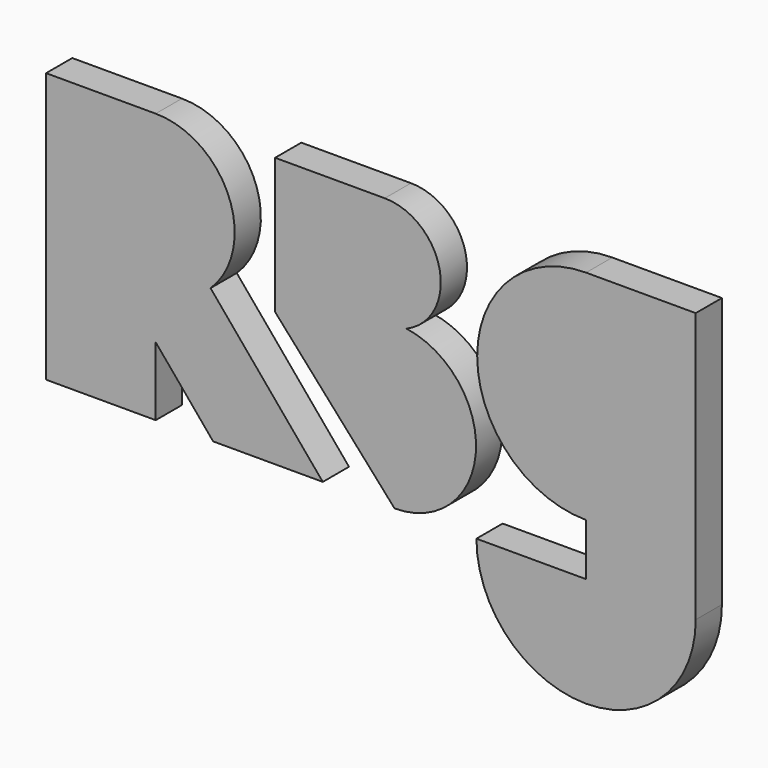
from build123d import *

# Parameters (mm, degrees)
F1_DEPTH = 4
F2_SCALE = 3


with BuildPart() as f1:
    # F0 (on Front) → F1 (new body)
    with BuildSketch(Plane.XZ):
        with BuildLine():
            Line((-47.564137727, 17.5864230841), (-60.9555803239, 17.5864230841))
            Line((-60.9555803239, 17.5864230841), (-60.9555803239, -15.37309587))
            Line((-60.9555803239, -15.37309587), (-47.564137727, -15.37309587))
            Line((-47.564137727, -15.37309587), (-47.564137727, -6.994077368))
            Line((-47.564137727, -6.994077368), (-40.5505889729, -15.37309587))
            Line((-40.5505889729, -15.37309587), (-27.1591463759, -15.37309587))
            Line((-27.1591463759, -15.37309587), (-40.8671155118, 1.0036815704))
            ThreePointArc((-40.8671155118, 1.0036815704), (-38.622138193, 11.554010306), (-47.564137727, 17.5864230841))
        make_face()
    extrude(amount=F1_DEPTH)


with BuildPart() as f1b:
    # F0 (on Front) → F1, piece 2 (new body)
    with BuildSketch(Plane.XZ):
        with BuildLine():
            Line((-32.9818894637, 17.5864230841), (-32.9818894637, 1.0036815704))
            Line((-32.9818894637, 1.0036815704), (-18.397403881, -15.37309587))
            ThreePointArc((-18.397403881, -15.37309587), (-8.4671886154, -6.1487036903), (-16.9357250418, 4.4334736424))
            ThreePointArc((-16.9357250418, 4.4334736424), (-12.8813555165, 12.0961684018), (-19.5904468667, 17.5864230841))
            Line((-19.5904468667, 17.5864230841), (-32.9818894637, 17.5864230841))
        make_face()
    extrude(amount=F1_DEPTH)


with BuildPart() as f1c:
    # F0 (on Front) → F1, piece 3 (new body)
    with BuildSketch(Plane.XZ):
        with BuildLine():
            Line((18.3889092878, 17.5864230841), (4.9974666908, 17.5864230841))
            ThreePointArc((4.9974666908, 17.5864230841), (-8.3010957386, 4.2878606547), (4.9974666908, -9.0107017748))
            Line((4.9974666908, -9.0107017748), (4.9974666908, -15.37309587))
            Line((4.9974666908, -15.37309587), (-8.3939759061, -15.37309587))
            ThreePointArc((-8.3939759061, -15.37309587), (4.9974666908, -28.7645384669), (18.3889092878, -15.37309587))
            Line((18.3889092878, -15.37309587), (18.3889092878, 17.5864230841))
        make_face()
    extrude(amount=F1_DEPTH)


with BuildPart() as f1_1:
    # F2: moved
    add(f1.part.scale(F2_SCALE).moved(Location((121.9111606479, 8, -35.1728461683))))


with BuildPart() as f1b_1:
    # F2: moved
    add(f1b.part.scale(F2_SCALE).moved(Location((121.9111606479, 8, -35.1728461683))))


with BuildPart() as f1c_1:
    # F2: moved
    add(f1c.part.scale(F2_SCALE).moved(Location((121.9111606479, 8, -35.1728461683))))


solid = Compound([f1_1.part, f1b_1.part, f1c_1.part])
